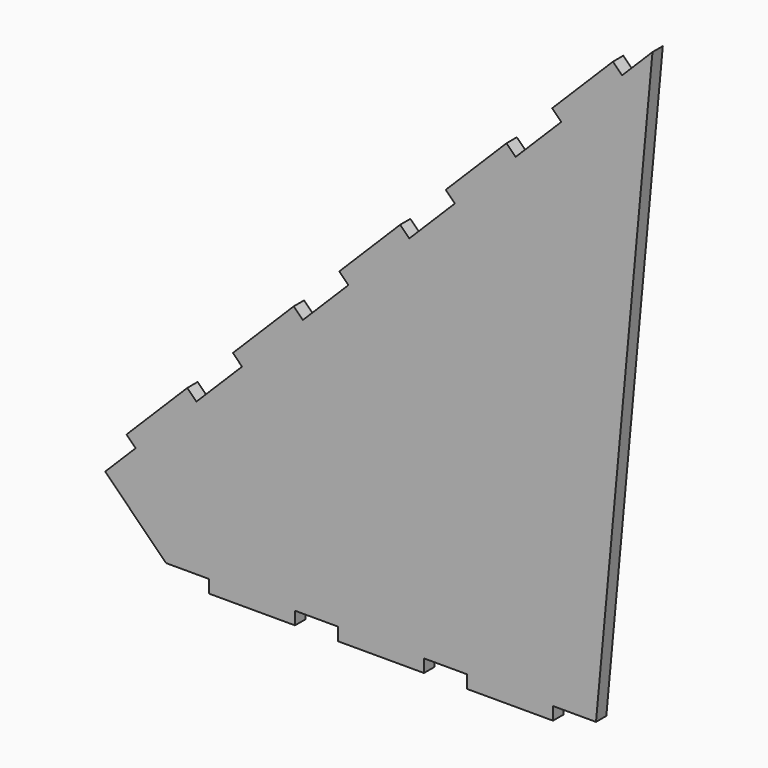
from build123d import *

# Parameters (mm, degrees)
F1_DEPTH = 3


with BuildPart() as f1:
    # F0 (on Front) → F1 (new body)
    with BuildSketch(Plane.XZ):
        Polygon((-13.137085, -65.671355), (0, 75.750001), (-7.071068, 68.678933), (-9.192388, 70.800253), (-23.334524, 56.658118), (-21.213203, 54.536797), (-31.819805, 43.930196), (-33.941125, 46.051516), (-48.083261, 31.90938), (-45.961941, 29.78806), (-56.568542, 19.181458), (-58.689863, 21.302779), (-65.760931, 14.231711), (-72.831998, 7.160643), (-70.710678, 5.039323), (-81.31728, -5.567279), (-83.4386, -3.445959), (-97.580736, -17.588094), (-95.459415, -19.709415), (-106.066017, -30.316016), (-108.187338, -28.194696), (-122.329473, -42.336832), (-120.208153, -44.458152), (-127.279221, -51.52922), (-113.137085, -65.671355), (-103.137085, -65.671355), (-103.137085, -68.671355), (-83.137085, -68.671355), (-83.137085, -65.671355), (-73.137085, -65.671355), (-73.137085, -68.671355), (-53.137085, -68.671355), (-53.137085, -65.671355), (-43.137085, -65.671355), (-43.137085, -68.671355), (-23.137085, -68.671355), (-23.137085, -65.671355), align=None)
    extrude(amount=F1_DEPTH)


solid = f1.part
